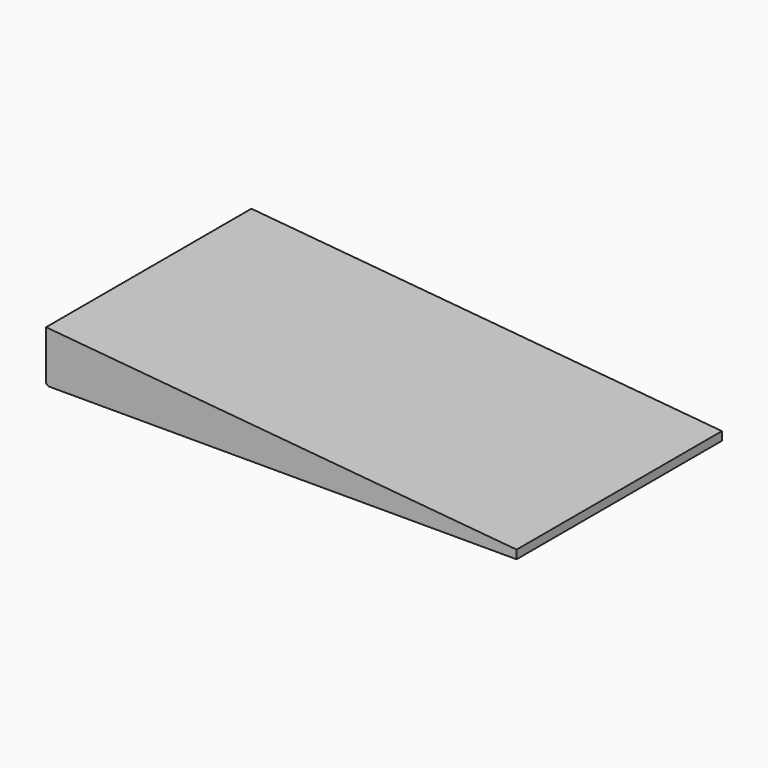
from build123d import *

# Parameters (mm, degrees)
F1_DEPTH = 30
F2_SIZE2 = 0.3
F2_SIZE  = 0.2


with BuildPart() as f1:
    # F0 (on Front) → F1 (new body)
    with BuildSketch(Plane.XZ):
        Polygon((-27.5, 6), (-27.5, 0), (27.5, 0), (27.5, 1), align=None)
    extrude(amount=F1_DEPTH)

    # F2
    f2_edges = [f1.edges().sort_by_distance(p)[0] for p in [
        (-27.5, -15, 0),
    ]]
    chamfer(f2_edges, length=F2_SIZE, length2=F2_SIZE2)


solid = f1.part
